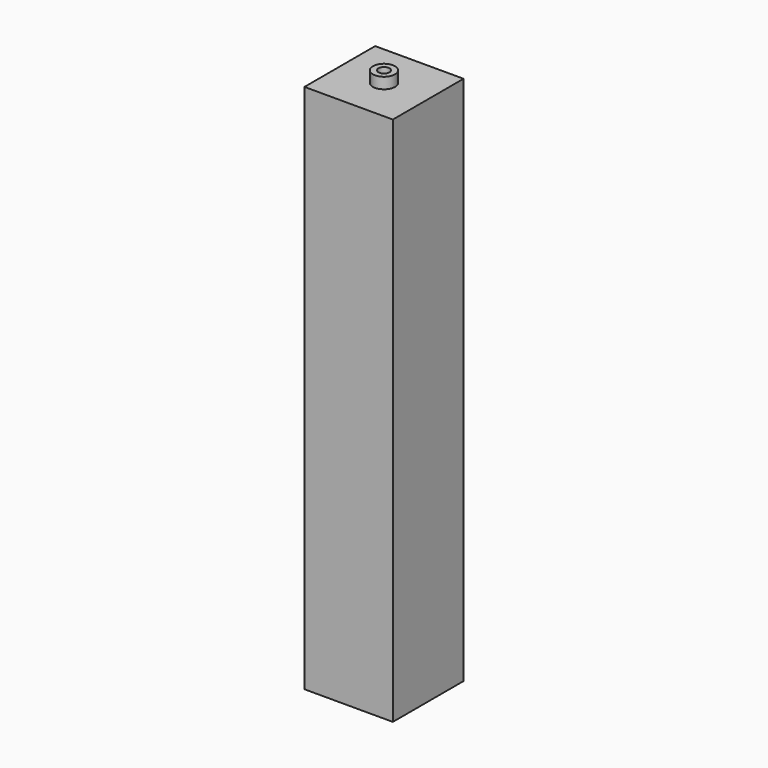
from build123d import *

# Parameters (mm, degrees)
F0_R     = 1.5875
F1_DEPTH = 82.55
F2_R     = 3.175
F2_R_2   = 1.5875
F3_DEPTH = 3.175
F4_W     = 25.4
F4_H     = 25.4
F5_DEPTH = 152.4


with BuildPart() as f1:
    # F0 (on Top) → F1 (new body)
    with BuildSketch(Plane.XY):
        Circle(F0_R)
    extrude(amount=-F1_DEPTH)


with BuildPart() as f3:
    # F2 (on Top) → F3 (new body)
    with BuildSketch(Plane.XY):
        Circle(F2_R)
        Circle(F2_R_2, mode=Mode.SUBTRACT)
    extrude(amount=F3_DEPTH)


with BuildPart() as f5:
    # F4 (on Top) → F5 (new body)
    with BuildSketch(Plane.XY):
        Rectangle(F4_W, F4_H)
    extrude(amount=-F5_DEPTH)


solid = Compound([f1.part, f3.part, f5.part])
